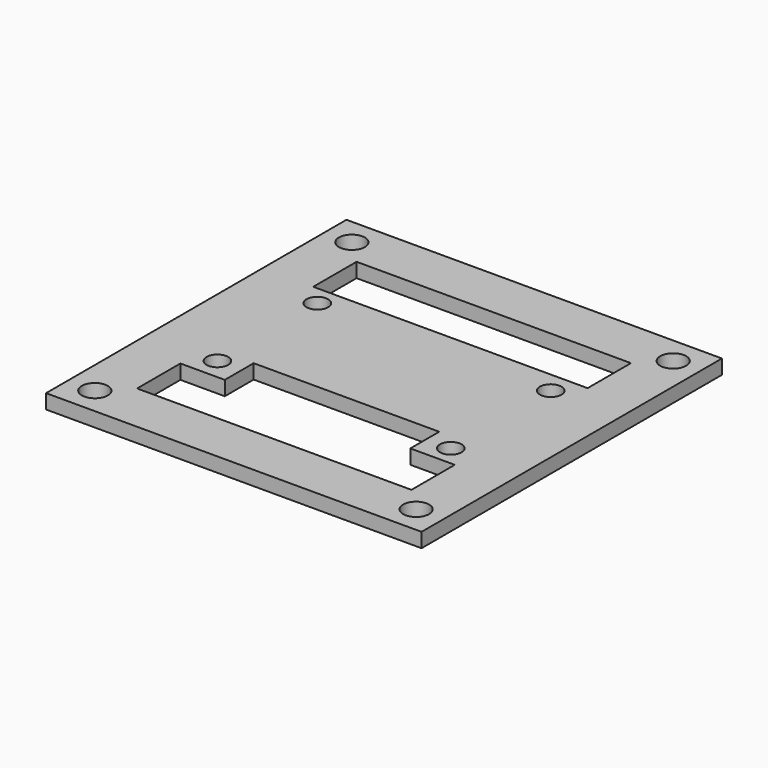
from build123d import *

# Parameters (mm, degrees)
SKETCH_W     = 52
SKETCH_H     = 52
SKETCH_R     = 1.8
SKETCH_R_2   = 1.5
SKETCH_W_2   = 38
SKETCH_H_2   = 7.5
PAD_DEPTH    = 2
SKETCH001_W  = 25.7
SKETCH001_H  = 8
POCKET_DEPTH = 5


with BuildPart() as part:
    # Sketch → Pad (new body)
    with BuildSketch(Plane.XY):
        Rectangle(SKETCH_W, SKETCH_H)
        with Locations((22.25, 22.25)):
            Circle(SKETCH_R, mode=Mode.SUBTRACT)
        with Locations((22.25, -22.25)):
            Circle(SKETCH_R, mode=Mode.SUBTRACT)
        with Locations((-22.25, 22.25)):
            Circle(SKETCH_R, mode=Mode.SUBTRACT)
        with Locations((-22.25, -22.25)):
            Circle(SKETCH_R, mode=Mode.SUBTRACT)
        with Locations((16.25, 8.55)):
            Circle(SKETCH_R_2, mode=Mode.SUBTRACT)
        with Locations((-16.25, 8.76716)):
            Circle(SKETCH_R_2, mode=Mode.SUBTRACT)
        with Locations((-16.25, -8.53284)):
            Circle(SKETCH_R_2, mode=Mode.SUBTRACT)
        with Locations((16.25, -8.75)):
            Circle(SKETCH_R_2, mode=Mode.SUBTRACT)
        with Locations((0, 15.25)):
            Rectangle(SKETCH_W_2, SKETCH_H_2, mode=Mode.SUBTRACT)
        with Locations((0, -15.25)):
            Rectangle(SKETCH_W_2, SKETCH_H_2, mode=Mode.SUBTRACT)
    extrude(amount=PAD_DEPTH)

    # Sketch001 → Pocket (cut)
    with BuildSketch(Plane.XY.offset(2)):
        with Locations((0, -10.5)):
            Rectangle(SKETCH001_W, SKETCH001_H)
    extrude(amount=-POCKET_DEPTH, mode=Mode.SUBTRACT)


solid = part.part
